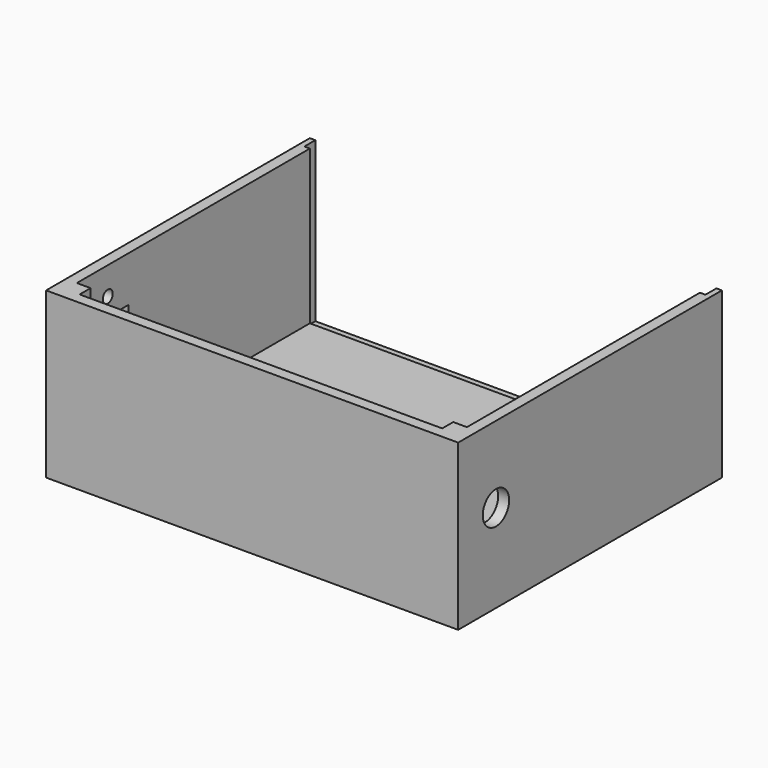
from build123d import *

# Parameters (mm, degrees)
F0_W      = 120
F0_H      = 60
F0_R      = 6
F1_DEPTH  = 150
F2_W      = 142
F2_H      = 116
F3_DEPTH  = 56
F4_W      = 5
F4_H      = 56
F5_DEPTH  = 2
F6_W      = 5
F6_H      = 56
F7_DEPTH  = 2
F9_DEPTH  = 2
F10_R     = 2.25
F11_DEPTH = 11.6
F10_W     = 19
F10_H     = 28
F12_DEPTH = 25
F13_DEPTH = 25
F15_DEPTH = 20
F14_W     = 5
F14_H     = 5
F16_DEPTH = 56


with BuildPart() as f1:
    # F0 (on Right) → F1 (new body)
    with BuildSketch(Plane.YZ):
        with Locations((-60, 30)):
            Rectangle(F0_W, F0_H)
        with Locations((-102.817491, 32.142658)):
            Circle(F0_R, mode=Mode.SUBTRACT)
        with Locations((-102.817491, 32.142658)):
            Circle(F0_R)
    extrude(amount=-F1_DEPTH)

    # F2 (on face) → F3 (cut)
    with BuildSketch(Plane.XY.offset(60)):
        with Locations((-75, -58)):
            Rectangle(F2_W, F2_H)
    extrude(amount=-F3_DEPTH, mode=Mode.SUBTRACT)

    # F4 (on face) → F5 (cut)
    with BuildSketch(Plane(origin=(-4, 0, 0), x_dir=(0, -1, 0), z_dir=(-1, 0, 0))):
        with Locations((2.5, 32)):
            Rectangle(F4_W, F4_H)
    extrude(amount=-F5_DEPTH, mode=Mode.SUBTRACT)

    # F6 (on face) → F7 (cut)
    with BuildSketch(Plane.YZ.offset(-146)):
        with Locations((-2.5, 32)):
            Rectangle(F6_W, F6_H)
    extrude(amount=-F7_DEPTH, mode=Mode.SUBTRACT)

    # F8 (on face) → F9 (cut)
    with BuildSketch(Plane.XY.offset(4)):
        Polygon((-4, -5), (-2, -5), (-2, 0), (-148, 0), (-148, -5), (-146, -5), align=None)
    extrude(amount=-F9_DEPTH, mode=Mode.SUBTRACT)

    # F10 (on face) → F11 (cut)
    with BuildSketch(Plane(origin=(-150, 0, 0), x_dir=(0, -1, 0), z_dir=(-1, 0, 0))):
        with Locations((96.941963, 49.947112)):
            Circle(F10_R)
    extrude(amount=-F11_DEPTH, mode=Mode.SUBTRACT)

    # F10 (on face) → F12 (cut)
    with BuildSketch(Plane(origin=(-150, 0, 0), x_dir=(0, -1, 0), z_dir=(-1, 0, 0))):
        with Locations((96.941963, 29.447112)):
            Rectangle(F10_W, F10_H)
    extrude(amount=-F12_DEPTH, mode=Mode.SUBTRACT)

    # F10 (on face) → F13 (cut)
    with BuildSketch(Plane(origin=(-150, 0, 0), x_dir=(0, -1, 0), z_dir=(-1, 0, 0))):
        with Locations((96.941963, 8.947112)):
            Circle(F10_R)
    extrude(amount=-F13_DEPTH, mode=Mode.SUBTRACT)

    # F0 (on Right) → F15 (cut)
    with BuildSketch(Plane.YZ):
        with Locations((-102.817491, 32.142658)):
            Circle(F0_R)
    extrude(amount=-F15_DEPTH, mode=Mode.SUBTRACT)

    # F14 (on face) → F16 (join)
    with BuildSketch(Plane.XY.offset(4)):
        with Locations((-6.5, -113.5)):
            Rectangle(F14_W, F14_H)
        with Locations((-143.5, -113.5)):
            Rectangle(F14_W, F14_H)
    extrude(amount=F16_DEPTH)


solid = f1.part
